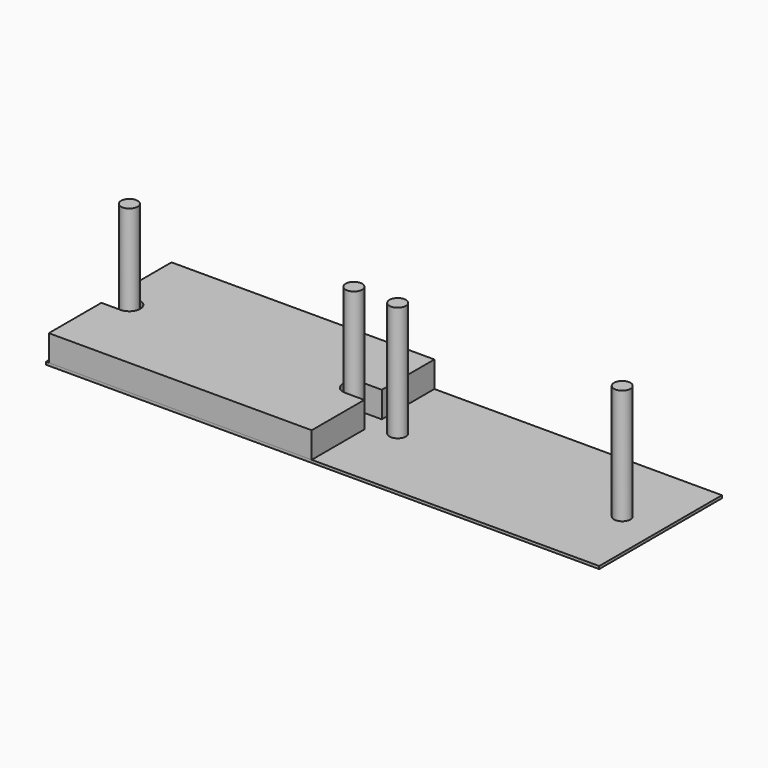
from build123d import *

# Parameters (mm, degrees)
F0_W     = 971.55
F0_H     = 177.8
F1_DEPTH = 3.175
F2_R     = 9.525
F3_DEPTH = 133.35
F4_W     = 330.2
F4_H     = 177.8
F5_DEPTH = 136.526
F7_DEPTH = 30.1625


with BuildPart() as f1:
    # F0 (on Top) → F1 (new body)
    with BuildSketch(Plane.XY):
        with Locations((485.775, -88.9)):
            Rectangle(F0_W, F0_H)
    extrude(amount=F1_DEPTH)

    # F2 (on face) → F3 (join)
    with BuildSketch(Plane.XY.offset(3.175)):
        with Locations((43.688, -88.9)):
            Circle(F2_R)
        with BuildLine():
            Line((311.15, -95.236015), (311.15, -82.563985))
            ThreePointArc((311.15, -82.563985), (300.648028, -79.998668), (294.513, -88.9))
            ThreePointArc((294.513, -88.9), (300.648028, -97.801332), (311.15, -95.236015))
        make_face()
        with Locations((355.6, -88.9)):
            Circle(F2_R)
        with BuildLine():
            ThreePointArc((625.475, -88.9), (615.95, -79.375), (606.425, -88.9))
            ThreePointArc((606.425, -88.9), (615.95, -98.425), (625.475, -88.9))
        make_face()
        with Locations((666.75, -88.9)):
            Circle(F2_R)
        with BuildLine():
            ThreePointArc((917.575, -88.9), (927.1, -98.425), (936.625, -88.9))
            ThreePointArc((936.625, -88.9), (927.1, -79.375), (917.575, -88.9))
        make_face()
    extrude(amount=F3_DEPTH)

    # F4 (on face) → F5 (cut, through all)
    with BuildSketch(Plane(origin=(0, 0, 0), x_dir=(1, 0, 0), z_dir=(0, 0, -1))):
        with Locations((165.1, 88.9)):
            Rectangle(F4_W, F4_H)
    extrude(amount=-F5_DEPTH, mode=Mode.SUBTRACT)


with BuildPart() as f7:
    # F6 (on face) → F7 (new body)
    with BuildSketch(Plane.XY.offset(3.175)):
        with BuildLine():
            Line((638.175, 0), (333.375, 0))
            Line((333.375, 0), (333.375, -76.2))
            Line((333.375, -76.2), (355.6, -76.2))
            ThreePointArc((355.6, -76.2), (368.3, -88.9), (355.6, -101.6))
            Line((355.6, -101.6), (333.375, -101.6))
            Line((333.375, -101.6), (333.375, -177.8))
            Line((333.375, -177.8), (638.175, -177.8))
            Line((638.175, -177.8), (638.175, -101.6))
            Line((638.175, -101.6), (615.95, -101.6))
            ThreePointArc((615.95, -101.6), (603.25, -88.9), (615.95, -76.2))
            Line((615.95, -76.2), (638.175, -76.2))
            Line((638.175, -76.2), (638.175, 0))
        make_face()
    extrude(amount=F7_DEPTH)


solid = Compound([f1.part, f7.part])
